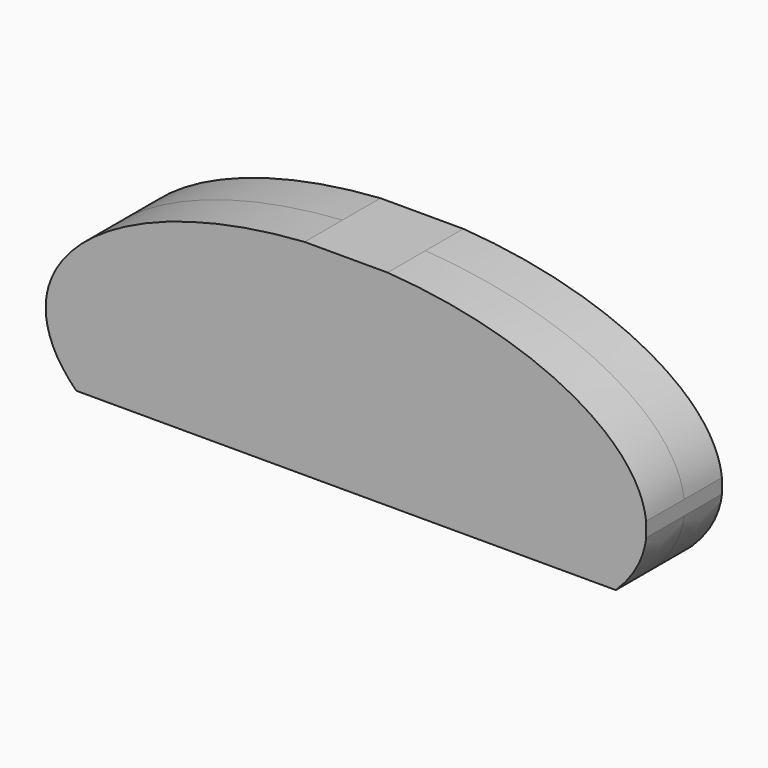
from build123d import *

# Parameters (mm, degrees)
F1_DEPTH = 15


with BuildPart() as f1:
    # F0 (on Front) → F1 (new body, symmetric)
    with BuildSketch(Plane.XZ):
        with BuildLine():
            Line((13.1347461497, 45), (-13.1347461497, 45))
            add(Edge.make_bspline(
                [(-13.1347461497, 45), (-91.0153910883, 39.8136653598), (-95, 2.3023358521)],
                knots=[4.8509144531, 4.8509144531, 4.8509144531, 6.2324906842, 6.2324906842, 6.2324906842], degree=2, weights=[1, 0.7707441106, 1]))
            Line((-95, 2.3023358521), (-95, -2.3023358521))
            add(Edge.make_bspline(
                [(-95, -2.3023358521), (-94.0100796719, -11.621500778), (-85.4108101327, -20)],
                knots=[0.0506946229, 0.0506946229, 0.0506946229, 0.4558068903, 0.4558068903, 0.4558068903], degree=2, weights=[1, 0.9795555512, 1]))
            Line((-85.4108101327, -20), (85.4108101327, -20))
            add(Edge.make_bspline(
                [(85.4108101327, -20), (94.0100796719, -11.621500778), (95, -2.3023358521)],
                knots=[2.6857857633, 2.6857857633, 2.6857857633, 3.0908980307, 3.0908980307, 3.0908980307], degree=2, weights=[1, 0.9795555512, 1]))
            Line((95, -2.3023358521), (95, 2.3023358521))
            add(Edge.make_bspline(
                [(95, 2.3023358521), (91.0153910883, 39.8136653598), (13.1347461497, 45)],
                knots=[3.1922872765, 3.1922872765, 3.1922872765, 4.5738635077, 4.5738635077, 4.5738635077], degree=2, weights=[1, 0.7707441106, 1]))
        make_face()
    extrude(amount=F1_DEPTH, both=True)


solid = f1.part
